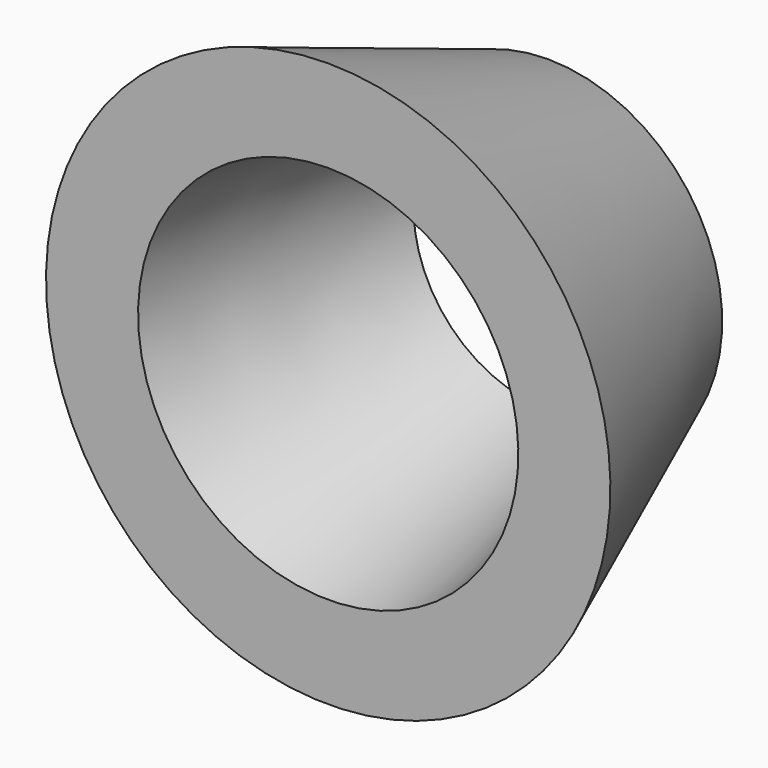
from build123d import *


with BuildPart() as f1:
    # F0 (on Right) → F1 (revolve)
    with BuildSketch(Plane.YZ):
        Polygon((0, 79.375014), (0, 53.481814), (77.279791, 37.833687), (77.279791, 49.0015), align=None)
    revolve(axis=Axis((0, 38.639896, 0), (0, 1, 0)))


solid = f1.part
